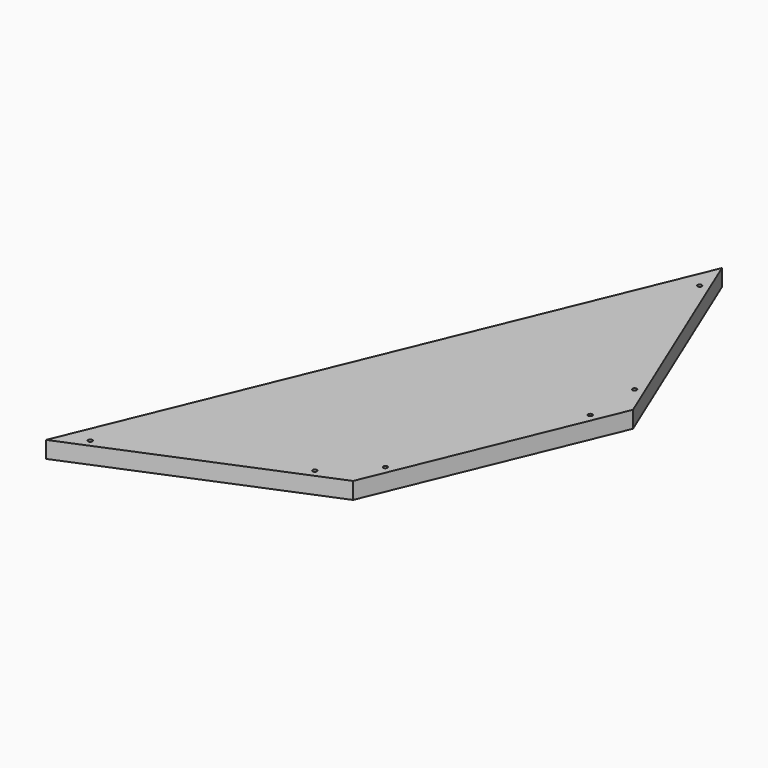
from build123d import *

# Parameters (mm, degrees)
F1_DEPTH = 25.4
F3_DEPTH = 25.401


with BuildPart() as f1:
    # F0 (on Top) → F1 (new body)
    with BuildSketch(Plane.XY):
        Polygon((349.925731, -349.925731), (494.869714, 0), (349.925731, 349.925731), (0, -494.869714), align=None)
    extrude(amount=F1_DEPTH)

    # F2 (on face) → F3 (cut, through all)
    with BuildSketch(Plane.XY.offset(25.4)):
        with BuildLine():
            ThreePointArc((43.288021, -466.629443), (44.712917, -465.460061), (45.248001, -463.696126))
            ThreePointArc((45.248001, -463.696126), (39.433085, -461.93219), (43.288021, -466.629443))
        make_face()
        with BuildLine():
            ThreePointArc((299.347591, -360.566096), (300.772487, -359.396714), (301.307571, -357.632779))
            ThreePointArc((301.307571, -357.632779), (295.492655, -355.868843), (299.347591, -360.566096))
        make_face()
        with BuildLine():
            ThreePointArc((360.566096, -299.347591), (360.746772, -298.751982), (360.807779, -298.132571))
            ThreePointArc((360.807779, -298.132571), (358.252191, -295.018577), (354.699461, -296.917551))
            Line((354.699461, -296.917551), (357.632779, -298.132571))
            Line((357.632779, -298.132571), (360.566096, -299.347591))
        make_face()
        with BuildLine():
            Line((357.632779, -298.132571), (354.699461, -296.917551))
            ThreePointArc((354.699461, -296.917551), (356.417759, -301.065888), (360.566096, -299.347591))
            Line((360.566096, -299.347591), (357.632779, -298.132571))
        make_face()
        with BuildLine():
            ThreePointArc((466.629443, -43.288021), (466.810119, -42.692412), (466.871126, -42.073001))
            ThreePointArc((466.871126, -42.073001), (464.315537, -38.959007), (460.762808, -40.857981))
            Line((460.762808, -40.857981), (463.696126, -42.073001))
            Line((463.696126, -42.073001), (466.629443, -43.288021))
        make_face()
        with BuildLine():
            Line((463.696126, -42.073001), (460.762808, -40.857981))
            ThreePointArc((460.762808, -40.857981), (462.481106, -45.006318), (466.629443, -43.288021))
            Line((466.629443, -43.288021), (463.696126, -42.073001))
        make_face()
        with BuildLine():
            ThreePointArc((466.629443, 43.288021), (460.582132, 41.453589), (466.871126, 42.073001))
            ThreePointArc((466.871126, 42.073001), (466.810119, 42.692412), (466.629443, 43.288021))
        make_face()
        with BuildLine():
            ThreePointArc((360.566096, 299.347591), (354.518786, 297.513159), (360.807779, 298.132571))
            ThreePointArc((360.807779, 298.132571), (360.746772, 298.751982), (360.566096, 299.347591))
        make_face()
    extrude(amount=-F3_DEPTH, mode=Mode.SUBTRACT)


solid = f1.part
